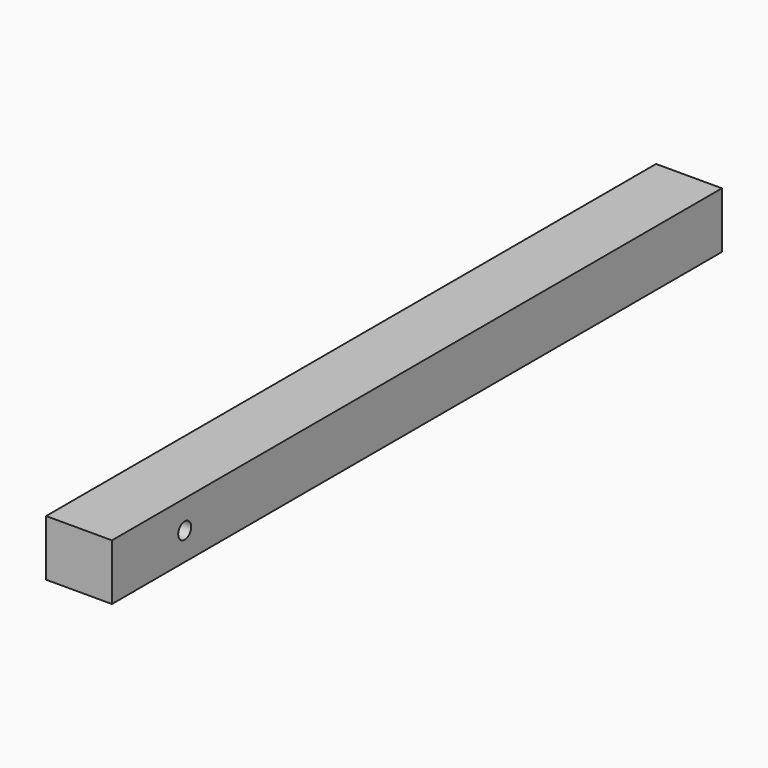
from build123d import *

# Parameters (mm, degrees)
F1_START = -31.75
F0_W     = 58.6923658848
F0_H     = 49.9662607908
F1_DEPTH = 679.45
F4_D     = 14.478


with BuildPart() as f1:
    # F0 (on Front) → F1 (new body)
    with BuildSketch(Plane.XZ.offset(F1_START)):
        with Locations((-1.1275112629, 24.9831303954)):
            Rectangle(F0_W, F0_H)
    extrude(amount=-F1_DEPTH)

    # F4 (through all)
    with Locations(Plane(origin=(-30.4736942053, 0, 0), x_dir=(0, -1, 0), z_dir=(-1, 0, 0))):
        with Locations((-112.7921268344, 24.7305184603)):
            Hole(F4_D / 2)


solid = f1.part
